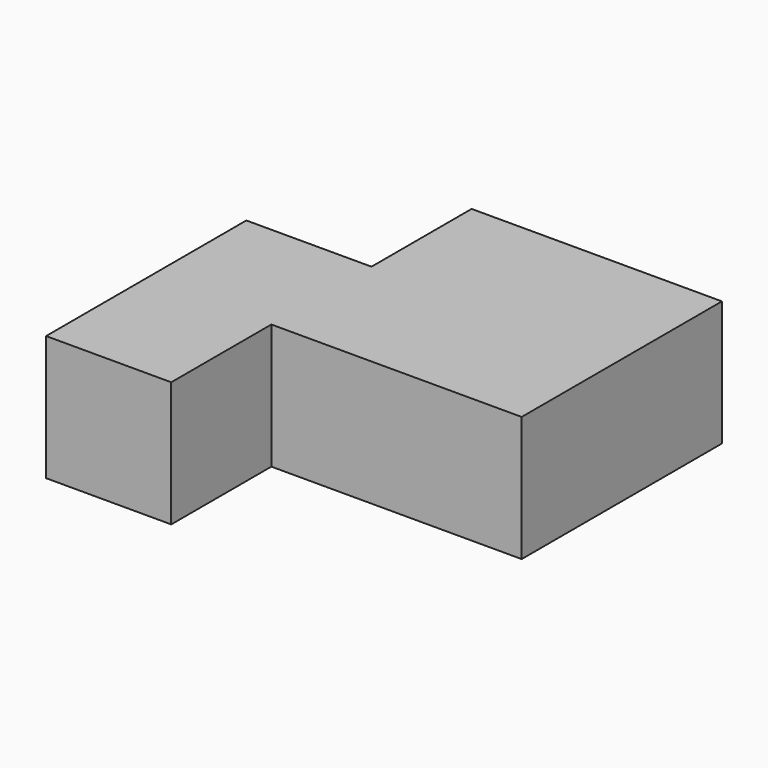
from build123d import *

# Parameters (mm, degrees)
F0_W     = 37.973
F0_H     = 37.973
F1_DEPTH = 18.9865
F2_W     = 18.9865
F2_H     = 37.973
F3_DEPTH = 18.9865


with BuildPart() as f1:
    # F0 (on Top) → F1 (new body)
    with BuildSketch(Plane.XY):
        Rectangle(F0_W, F0_H)
    extrude(amount=F1_DEPTH)

    # F2 (on face) → F3 (join)
    with BuildSketch(Plane.XY.offset(18.9865)):
        with Locations((-28.47975, -18.9865)):
            Rectangle(F2_W, F2_H)
    extrude(amount=-F3_DEPTH)


solid = f1.part
